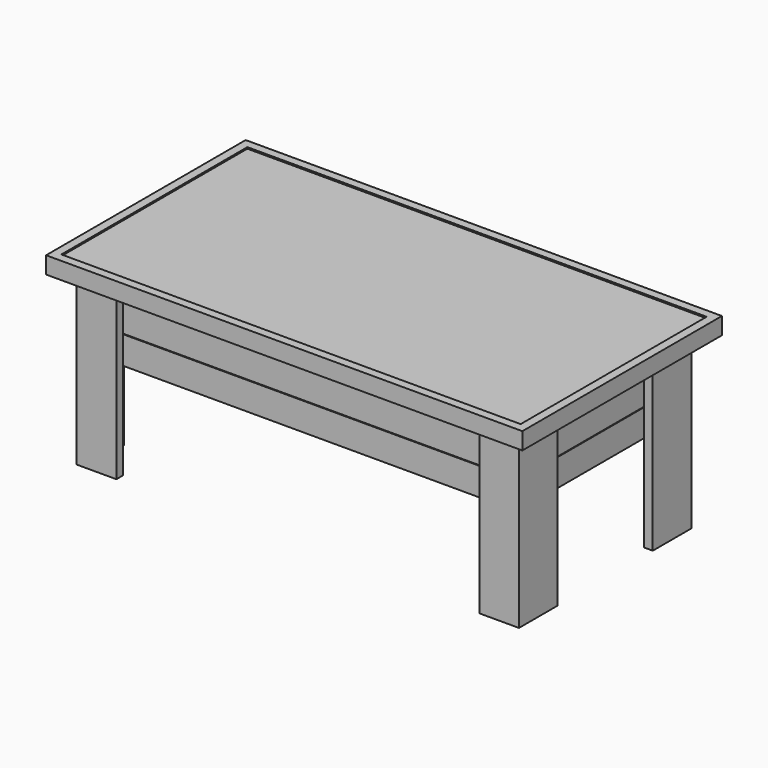
from build123d import *

# Parameters (mm, degrees)
F0_W      = 1066.8
F0_H      = 558.8
F0_W_2    = 1028.7
F0_H_2    = 520.7
F1_DEPTH  = 38.1
F2_W      = 1028.7
F2_H      = 6.35
F3_DEPTH  = 520.7
F4_W      = 952.5
F4_H      = 19.05
F5_DEPTH  = 63.5
F6_W      = 63.5
F6_H      = 406.4
F7_DEPTH  = 63.5
F8_W      = 19.05
F8_H      = 88.9
F9_DEPTH  = 406.4
F10_W     = 914.4
F10_H     = 19.05
F11_DEPTH = 190.5
F12_W     = 812.8
F12_H     = 1.27
F13_DEPTH = 12.7
F14_W     = 266.7
F14_H     = 1.27
F15_DEPTH = 952.5
F16_W     = 19.05
F16_H     = 62.23
F17_DEPTH = 952.5


with BuildPart() as f1:
    # F0 (on Top) → F1 (new body)
    with BuildSketch(Plane.XY):
        Rectangle(F0_W, F0_H)
        Rectangle(F0_W_2, F0_H_2, mode=Mode.SUBTRACT)
    extrude(amount=F1_DEPTH)

    # F2 (on face) → F3 (join)
    with BuildSketch(Plane(origin=(0, -260.35, 0), x_dir=(-1, 0, 0), z_dir=(0, 1, 0))):
        with Locations((0, 31.75)):
            Rectangle(F2_W, F2_H)
    extrude(amount=F3_DEPTH)

    # F4 (on face) → F5 (join)
    with BuildSketch(Plane(origin=(0, 0, 28.575), x_dir=(1, 0, 0), z_dir=(0, 0, -1))):
        with Locations((0, 212.725)):
            Rectangle(F4_W, F4_H)
    extrude(amount=F5_DEPTH)

    # F6 (on face) → F7 (join)
    with BuildSketch(Plane(origin=(0, 0, 28.575), x_dir=(1, 0, 0), z_dir=(0, 0, -1))):
        with Locations((-412.75, 0)):
            Rectangle(F6_W, F6_H)
        with Locations((412.75, 0)):
            Rectangle(F6_W, F6_H)
    extrude(amount=F7_DEPTH)

    # F8 (on face) → F9 (join)
    with BuildSketch(Plane(origin=(0, 0, 28.575), x_dir=(1, 0, 0), z_dir=(0, 0, -1))):
        Polygon((-406.4, 241.3), (-495.3, 241.3), (-495.3, 222.25), (-476.25, 222.25), (-406.4, 222.25), align=None)
        with Locations((-485.775, 177.8)):
            Rectangle(F8_W, F8_H)
        with Locations((-485.775, -177.8)):
            Rectangle(F8_W, F8_H)
        Polygon((-476.25, -222.25), (-495.3, -222.25), (-495.3, -241.3), (-406.4, -241.3), (-406.4, -222.25), align=None)
        Polygon((476.25, -222.25), (406.4, -222.25), (406.4, -241.3), (495.3, -241.3), (495.3, -222.25), align=None)
        with Locations((485.775, -177.8)):
            Rectangle(F8_W, F8_H)
        Polygon((495.3, 241.3), (406.4, 241.3), (406.4, 222.25), (476.25, 222.25), (495.3, 222.25), align=None)
        with Locations((485.775, 177.8)):
            Rectangle(F8_W, F8_H)
    extrude(amount=F9_DEPTH)

    # F10 (on face) → F11 (join)
    with BuildSketch(Plane(origin=(0, 0, 28.575), x_dir=(1, 0, 0), z_dir=(0, 0, -1))):
        Polygon((476.25, -222.25), (476.25, 203.2), (457.2, 203.2), (457.2, -203.2), (457.2, -222.25), align=None)
        with Locations((0, -212.725)):
            Rectangle(F10_W, F10_H)
        Polygon((-457.2, -222.25), (-457.2, -203.2), (-457.2, 203.2), (-476.25, 203.2), (-476.25, -222.25), align=None)
    extrude(amount=F11_DEPTH)

    # F12 (on face) → F13 (cut)
    with BuildSketch(Plane(origin=(0, 222.25, 0), x_dir=(-1, 0, 0), z_dir=(0, 1, 0))):
        with Locations((0, -35.56)):
            Rectangle(F12_W, F12_H)
        with Locations((0, -99.06)):
            Rectangle(F12_W, F12_H)
    extrude(amount=-F13_DEPTH, mode=Mode.SUBTRACT)

    # F14 (on face) → F15 (cut)
    with BuildSketch(Plane(origin=(-476.25, 0, 0), x_dir=(0, -1, 0), z_dir=(-1, 0, 0))):
        with Locations((0, -35.56)):
            Rectangle(F14_W, F14_H)
        with Locations((0, -100.33)):
            Rectangle(F14_W, F14_H)
    extrude(amount=-F15_DEPTH, mode=Mode.SUBTRACT)

    # F16 (on face) → F17 (join)
    with BuildSketch(Plane.YZ.offset(-476.25)):
        with Locations((-212.725, -130.81)):
            Rectangle(F16_W, F16_H)
        with Locations((-212.725, -67.31)):
            Rectangle(F16_W, F16_H)
    extrude(amount=F17_DEPTH)


solid = f1.part
